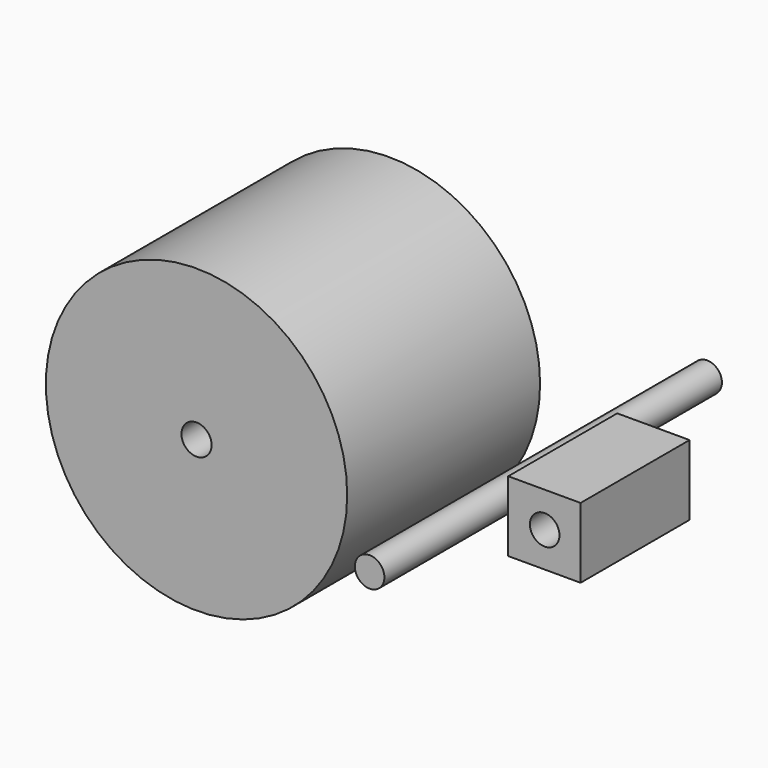
from build123d import *

# Parameters (mm, degrees)
F0_R          = 31.75
F1_DEPTH      = 50.8
F2_R          = 3.175
F3_DEPTH      = 50.801
F0_R_2        = 3.1115
F4_DEPTH      = 69.85
F4_DEPTH_BACK = 19.05
F6_START      = 57.15
F5_W          = 28.6999354139
F5_H          = 14.8128718138
F6_DEPTH      = 15.24
F7_R          = 3.1115
F8_DEPTH      = 59.191774101


with BuildPart() as f1:
    # F0 (on Front) → F1 (new body)
    with BuildSketch(Plane.XZ):
        Circle(F0_R)
    extrude(amount=F1_DEPTH)

    # F2 (on face) → F3 (cut, through all)
    with BuildSketch(Plane(origin=(0, 0, 0), x_dir=(-1, 0, 0), z_dir=(0, 1, 0))):
        Circle(F2_R)
    extrude(amount=-F3_DEPTH, mode=Mode.SUBTRACT)


with BuildPart() as f4:
    # F0 (on Front) → F4 (new body, two sides)
    with BuildSketch(Plane.XZ) as f4_sk:
        with Locations((51.7096742988, 0)):
            Circle(F0_R_2)
    extrude(amount=F4_DEPTH)
    extrude(f4_sk.sketch, amount=-F4_DEPTH_BACK)


with BuildPart() as f6:
    # F5 (on Right) → F6 (new body)
    with BuildSketch(Plane.YZ.offset(F6_START)):
        with Locations((-25.7908063941, 0.0374768861)):
            Rectangle(F5_W, F5_H)
    extrude(amount=F6_DEPTH)

    # F7 (on face) → F8 (cut, through all)
    with BuildSketch(Plane.XZ.offset(40.140774101)):
        with Locations((64.8297667503, 0)):
            Circle(F7_R)
    extrude(amount=-F8_DEPTH, mode=Mode.SUBTRACT)


solid = Compound([f1.part, f4.part, f6.part])
